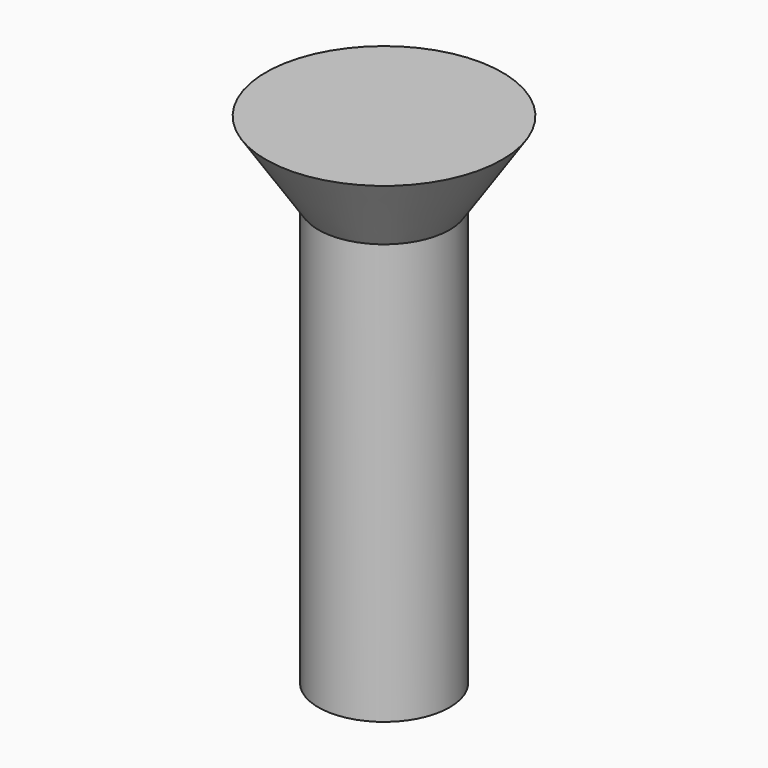
from build123d import *

# Parameters (mm, degrees)
CYLINDER011_R                   = 2.5
CYLINDER011_DEPTH               = 16
FUSION001018017_PLACEMENT_ANGLE = 180
CLONE017_PLACEMENT_ANGLE        = 180


with BuildPart() as cone003:
    # Cone003 → Cone003 (revolve)
    with BuildSketch(Plane(origin=(0, 0, -3), x_dir=(1, 0, 0), z_dir=(0, -1, 0))):
        Polygon((0, 0), (4.5, 0), (2.5, 3), (0, 3), align=None)
    revolve(axis=Axis((0, 0, -3), (0, 0, 1)))


with BuildPart() as obj1:
    # Cylinder011 → Cylinder011 (new body)
    with BuildSketch(Plane.XY):
        Circle(CYLINDER011_R)
    extrude(amount=CYLINDER011_DEPTH)

    # Fusion001018017: union Cone003
    add(cone003.part)


with BuildPart() as obj1_1:
    # Fusion001018017 placement: moved
    add(obj1.part.moved(Location((45, 15, 21))).rotate(Axis((45, 15, 21), (0, 1, 0)), FUSION001018017_PLACEMENT_ANGLE))


with BuildPart() as obj1_2:
    # Clone017 placement: moved
    add(obj1_1.part.moved(Location((90, 110, 0))).rotate(Axis((90, 110, 0), (0, 0, 1)), CLONE017_PLACEMENT_ANGLE))


with BuildPart() as obj1_3:
    # Clone028 placement: moved
    add(obj1_2.part.moved(Location((270, 0, 0))))


solid = obj1_3.part
